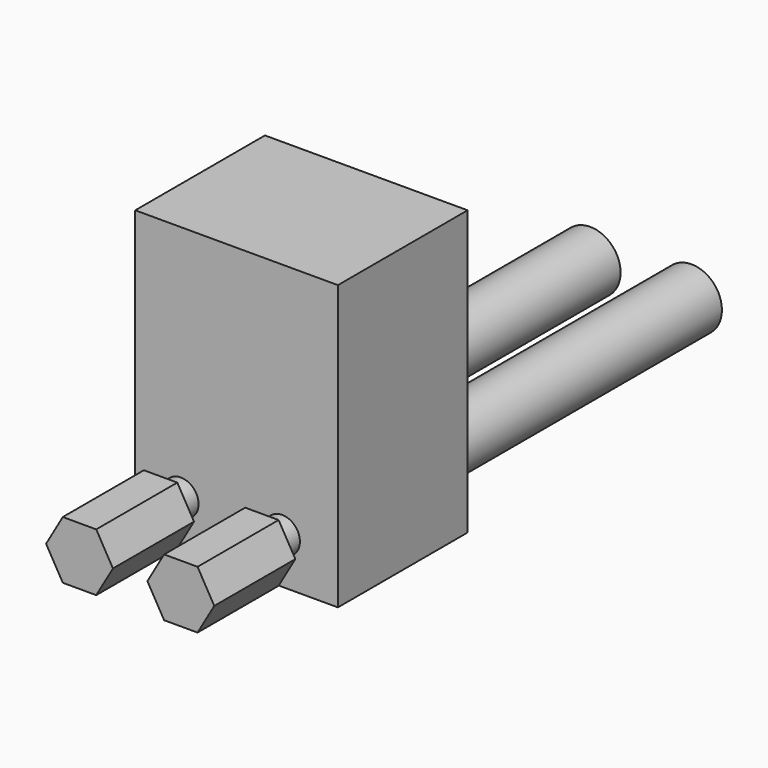
from build123d import *

# Parameters (mm, degrees)
PRISM002_DEPTH         = 10
PRISM002_ROLL_ANGLE    = -90
CYLINDER051_R          = 3
CYLINDER051_DEPTH      = 32
CYLINDER051_ROLL_ANGLE = -90
CYLINDER052_R          = 3
CYLINDER052_DEPTH      = 32
CYLINDER052_ROLL_ANGLE = -90
BOX040_W               = 20
BOX040_H               = 16
BOX040_DEPTH           = 28
CYLINDER053_R          = 1.75
CYLINDER053_DEPTH      = 32
CYLINDER053_ROLL_ANGLE = -90
CYLINDER054_R          = 1.75
CYLINDER054_DEPTH      = 32
CYLINDER054_ROLL_ANGLE = -90
PRISM001_DEPTH         = 10
PRISM001_ROLL_ANGLE    = -90


with BuildPart() as prisma002:
    # Prism002 → Prism002 (new body)
    with BuildSketch(Plane.XY):
        Polygon((3.3, 0), (1.65, 2.857884), (-1.65, 2.857884), (-3.3, 0), (-1.65, -2.857884), (1.65, -2.857884), align=None)
    extrude(amount=PRISM002_DEPTH)


with BuildPart() as prisma002_1:
    # Prism002 roll: moved
    add(prisma002.part.rotate(Axis((0, 0, 0), (1, 0, 0)), PRISM002_ROLL_ANGLE))


with BuildPart() as prisma002_2:
    # Prism002 placement: moved
    add(prisma002_1.part.moved(Location((8, 85, 84))))


with BuildPart() as cilindro017:
    # Cylinder051 → Cylinder051 (new body)
    with BuildSketch(Plane.XY):
        Circle(CYLINDER051_R)
    extrude(amount=CYLINDER051_DEPTH)


with BuildPart() as cilindro017_1:
    # Cylinder051 roll: moved
    add(cilindro017.part.rotate(Axis((0, 0, 0), (1, 0, 0)), CYLINDER051_ROLL_ANGLE))


with BuildPart() as cilindro017_2:
    # Cylinder051 placement: moved
    add(cilindro017_1.part.moved(Location((18, 116, 84))))


with BuildPart() as cilindro018:
    # Cylinder052 → Cylinder052 (new body)
    with BuildSketch(Plane.XY):
        Circle(CYLINDER052_R)
    extrude(amount=CYLINDER052_DEPTH)


with BuildPart() as cilindro018_1:
    # Cylinder052 roll: moved
    add(cilindro018.part.rotate(Axis((0, 0, 0), (1, 0, 0)), CYLINDER052_ROLL_ANGLE))


with BuildPart() as cilindro018_2:
    # Cylinder052 placement: moved
    add(cilindro018_1.part.moved(Location((8, 116, 84))))


with BuildPart() as cubo005:
    # Box040 → Box040 (new body)
    with BuildSketch(Plane(origin=(3.5, 97.5, 79.5), x_dir=(1, 0, 0), z_dir=(0, 0, 1))):
        with Locations((10, 8)):
            Rectangle(BOX040_W, BOX040_H)
    extrude(amount=BOX040_DEPTH)


with BuildPart() as cilindro013:
    # Cylinder053 → Cylinder053 (new body)
    with BuildSketch(Plane.XY):
        Circle(CYLINDER053_R)
    extrude(amount=CYLINDER053_DEPTH)


with BuildPart() as cilindro013_1:
    # Cylinder053 roll: moved
    add(cilindro013.part.rotate(Axis((0, 0, 0), (1, 0, 0)), CYLINDER053_ROLL_ANGLE))


with BuildPart() as cilindro013_2:
    # Cylinder053 placement: moved
    add(cilindro013_1.part.moved(Location((18, 90, 84))))


with BuildPart() as cilindro012:
    # Cylinder054 → Cylinder054 (new body)
    with BuildSketch(Plane.XY):
        Circle(CYLINDER054_R)
    extrude(amount=CYLINDER054_DEPTH)


with BuildPart() as cilindro012_1:
    # Cylinder054 roll: moved
    add(cilindro012.part.rotate(Axis((0, 0, 0), (1, 0, 0)), CYLINDER054_ROLL_ANGLE))


with BuildPart() as cilindro012_2:
    # Cylinder054 placement: moved
    add(cilindro012_1.part.moved(Location((8, 90, 84))))


with BuildPart() as arm_positive_cut:
    # Prism001 → Prism001 (new body)
    with BuildSketch(Plane.XY):
        Polygon((3.3, 0), (1.65, 2.857884), (-1.65, 2.857884), (-3.3, 0), (-1.65, -2.857884), (1.65, -2.857884), align=None)
    extrude(amount=PRISM001_DEPTH)


with BuildPart() as arm_positive_cut_1:
    # Prism001 roll: moved
    add(arm_positive_cut.part.rotate(Axis((0, 0, 0), (1, 0, 0)), PRISM001_ROLL_ANGLE))


with BuildPart() as arm_positive_cut_2:
    # Prism001 placement: moved
    add(arm_positive_cut_1.part.moved(Location((18, 85, 84))))

    # Fusion036: union Prisma002, Cilindro017, Cilindro018, Cubo005, Cilindro013, Cilindro012
    add(prisma002_2.part)
    add(cilindro017_2.part)
    add(cilindro018_2.part)
    add(cubo005.part)
    add(cilindro013_2.part)
    add(cilindro012_2.part)


solid = arm_positive_cut_2.part
